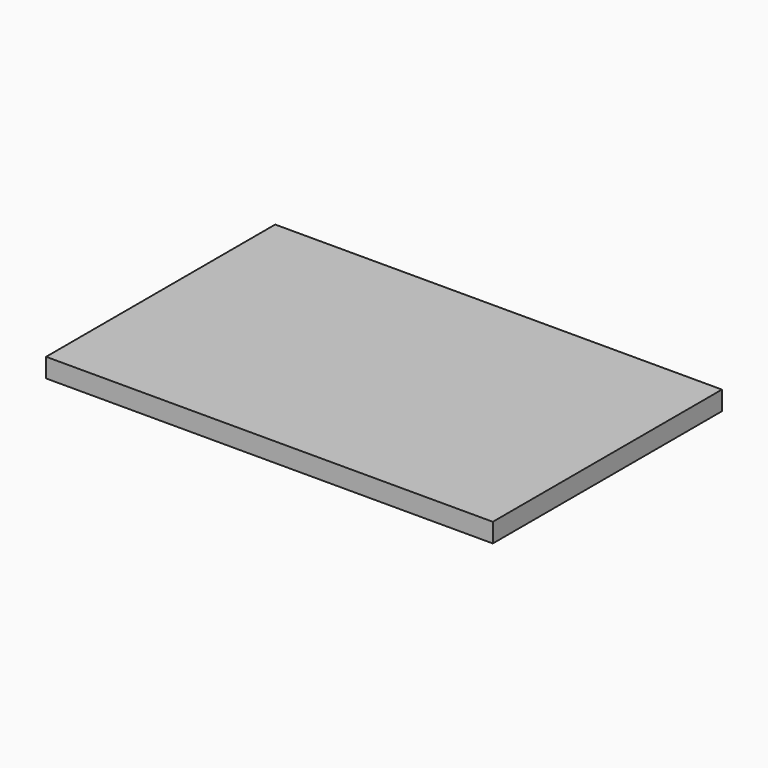
from build123d import *

# Parameters (mm, degrees)
SKETCH_W  = 234
SKETCH_H  = 150
PAD_DEPTH = 10


with BuildPart() as part:
    # Sketch → Pad (new body)
    with BuildSketch(Plane.XY):
        with Locations((117, 75)):
            Rectangle(SKETCH_W, SKETCH_H)
    extrude(amount=PAD_DEPTH)


solid = part.part
